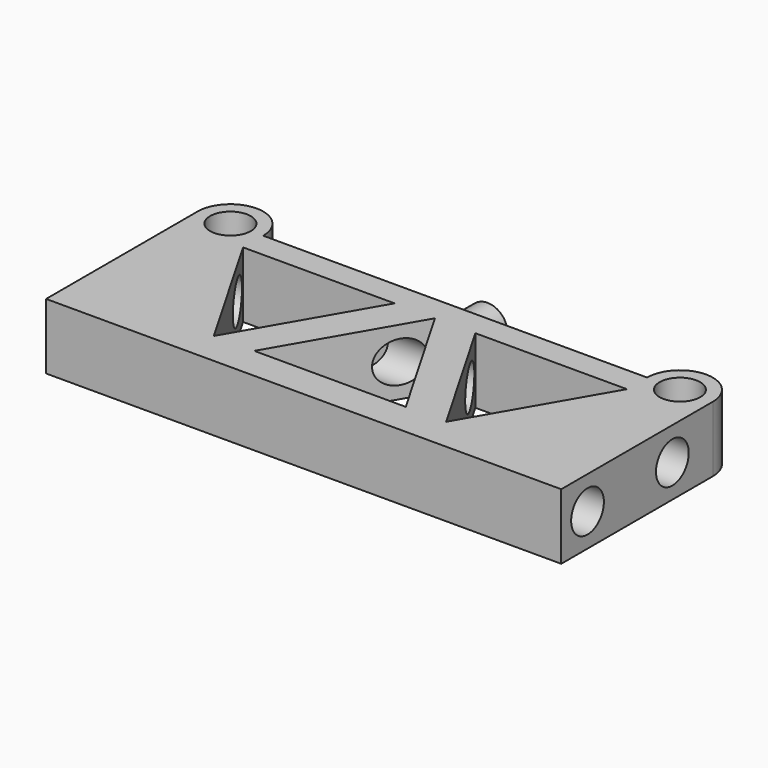
from build123d import *

# Parameters (mm, degrees)
F0_R     = 4.025
F1_DEPTH = 13
F2_R     = 4.05
F3_DEPTH = 200
F5_DEPTH = 25
F6_R     = 5
F6_R_2   = 3.975
F7_DEPTH = 1
F8_DEPTH = 8


with BuildPart() as f1:
    # F0 (on Top) → F1 (new body)
    with BuildSketch(Plane.XY):
        with BuildLine():
            Line((38, 0), (0, 0))
            Line((0, 0), (-38, 0))
            ThreePointArc((-38, 0), (-44.5, 6.5), (-51, 0))
            Line((-51, 0), (-51, -37.5))
            Line((-51, -37.5), (0, -37.5))
            Line((0, -37.5), (51, -37.5))
            Line((51, -37.5), (51, 0))
            ThreePointArc((51, 0), (44.5, 6.5), (38, 0))
        make_face()
        with Locations((-44.5, 0)):
            Circle(F0_R, mode=Mode.SUBTRACT)
        with Locations((44.5, 0)):
            Circle(F0_R, mode=Mode.SUBTRACT)
    extrude(amount=F1_DEPTH)

    # F2 (on face) → F3 (cut)
    with BuildSketch(Plane.YZ.offset(51)):
        with Locations((-10, 6.5)):
            Circle(F2_R)
        with Locations((-31, 6.5)):
            Circle(F2_R)
    extrude(amount=-F3_DEPTH, mode=Mode.SUBTRACT)

    # F4 (on face) → F5 (cut)
    with BuildSketch(Plane.XY.offset(13)):
        Polygon((-23, -30.980762), (-8, -5), (-38, -5), align=None)
        Polygon((15, -30.980762), (0, -5), (-15, -30.980762), align=None)
        Polygon((23, -30.980762), (38, -5), (8, -5), align=None)
    extrude(amount=-F5_DEPTH, mode=Mode.SUBTRACT)

    # F6 (on face) → F7 (join)
    with BuildSketch(Plane(origin=(0, 0, 0), x_dir=(-1, 0, 0), z_dir=(0, 1, 0))):
        with Locations((0, 6.5)):
            Circle(F6_R)
        with Locations((0, 6.445146)):
            Circle(F6_R_2, mode=Mode.SUBTRACT)
    extrude(amount=F7_DEPTH)

    # F6 (on face) → F8 (join)
    with BuildSketch(Plane(origin=(0, 0, 0), x_dir=(-1, 0, 0), z_dir=(0, 1, 0))):
        with Locations((0, 6.445146)):
            Circle(F6_R_2)
    extrude(amount=F8_DEPTH)


solid = f1.part
